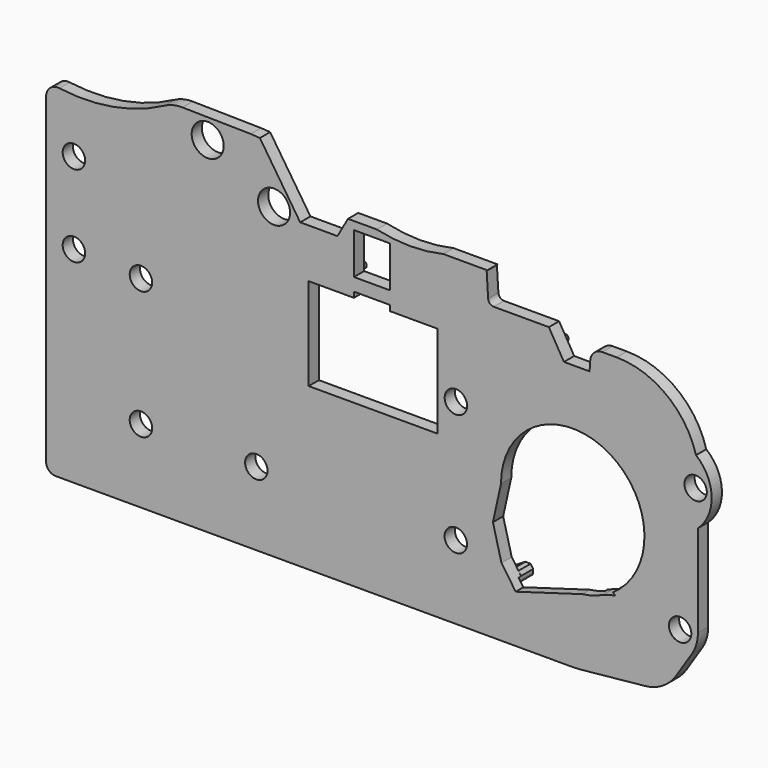
from build123d import *

# Parameters (mm, degrees)
PAD036_DEPTH    = 10
PAD037_DEPTH    = 10
PAD_DEPTH       = 2
POCKET022_DEPTH = 5
PAD001_DEPTH    = 3
SKETCH002_R     = 1.75
SKETCH002_R_2   = 1.8
SKETCH002_R_3   = 2.5
SKETCH002_R_4   = 11.18976
SKETCH002_W     = 5.62273
SKETCH002_H     = 6.447539
POCKET_DEPTH    = 2.5


with BuildPart() as body012:
    # Sketch056 → Pad036 (new body)
    with BuildSketch(Plane.XZ.offset(-1)):
        Polygon((-112.967441, 39.360652), (38.474369, 39.360652), (38.474369, -36.464421), (9.231458, -36.464421), (7.710164, -32.597797), (2.168727, -30.995455), (-3.706539, -34.133381), (-75.236191, -34.133381), (-112.967441, -28.899855), align=None)
    extrude(amount=-PAD036_DEPTH)

    # Sketch057 → Pad037 (join)
    with BuildSketch(Plane.XZ.offset(-1)):
        Polygon((-35.680244, 15.474805), (-33.439003, 15.329044), (-27.151497, 5.790857), (-21.33926, 5.790857), (-19.696665, 8.696977), (3.868171, 8.696977), (6.268959, 41.187645), (-27.277767, 43.082943), align=None)
        Polygon((4.252943, -30.799164), (6.472884, -34.009075), (21.980383, -29.473028), (9.225639, -16.763039), (4.571275, -18.150396), (2.920935, -25.618204), align=None)
    extrude(amount=PAD037_DEPTH)


with BuildPart() as body012_1:
    # Body012 placement: moved
    add(body012.part.moved(Location((0, -16, 0))))


with BuildPart() as backside:
    # Sketch → Pad (new body)
    with BuildSketch(Plane.XZ):
        with BuildLine():
            Line((34.908117, -16.046511), (34.908117, -30.421156))
            ThreePointArc((33.966362, -33.608462), (34.667753, -32.082919), (34.908117, -30.421156))
            Line((33.966362, -33.608462), (31.496699, -37.422811))
            ThreePointArc((26.62129, -40.400939), (29.398118, -39.467045), (31.496699, -37.422811))
            Line((16.892789, -41.382055), (26.62129, -40.400939))
            ThreePointArc((15.037659, -41.475363), (15.966396, -41.452021), (16.892789, -41.382055))
            Line((15.037659, -41.475363), (-65.31416, -41.475363))
            ThreePointArc((-66.799762, -39.989762), (-66.364639, -41.040241), (-65.31416, -41.475363))
            Line((-66.799762, -39.989762), (-66.799762, 10.179769))
            ThreePointArc((-64.729114, 11.988556), (-66.175275, 11.554477), (-66.799762, 10.179769))
            ThreePointArc((-64.729114, 11.988556), (-56.291395, 12.168118), (-48.316556, 14.930234))
            ThreePointArc((-45.536314, 15.60005), (-46.969042, 15.441993), (-48.316556, 14.930234))
            Line((-32.360933, 15.380445), (-45.536314, 15.60005))
            ThreePointArc((-32.360933, 15.380445), (-30.052429, 16.09023), (-28.605095, 18.023675))
            Line((-23.78021, 32.219441), (-28.605095, 18.023675))
            ThreePointArc((-21.294436, 34), (-22.823281, 33.508935), (-23.78021, 32.219441))
            Line((-2.141574, 34), (-21.294436, 34))
            ThreePointArc((0.523556, 31.494658), (-0.312664, 33.275331), (-2.141574, 34))
            Line((0.523556, 31.494658), (0.833508, 26.484702))
            ThreePointArc((1.210912, 20.384488), (2.367086, 23.517799), (0.833508, 26.484702))
            Line((1.210912, 20.384488), (1.512779, 15.505222))
            ThreePointArc((1.941555, 8.57465), (3.098229, 12.12476), (1.512779, 15.505222))
            Line((1.941555, 8.57465), (2.17198, 4.850132))
            ThreePointArc((2.17198, 4.850132), (2.45078, 4.256448), (3.060547, 4.01484))
            Line((3.060547, 4.01484), (11.648152, 4.01484))
            Line((11.648152, 4.01484), (14, 0))
            Line((14, 0), (18, 0))
            Line((18, 0), (18.105646, 1.531484))
            ThreePointArc((19.998692, 3.298441), (18.703918, 2.788065), (18.105646, 1.531484))
            Line((19.998692, 3.298441), (22.225658, 3.298441))
            ThreePointArc((34.606039, -6.108123), (29.999931, 0.680038), (22.225658, 3.298441))
            ThreePointArc((34.908117, -16.046511), (37.049591, -11.007636), (34.606039, -6.108123))
        make_face()
    extrude(amount=-PAD_DEPTH)

    # Sketch246 → Pocket022 (cut)
    with BuildSketch(Plane.XZ.offset(-0.5)):
        Polygon((-68.407944, -36.437805), (-6.008485, -36.437805), (-1.409258, -36.053066), (1.590662, -34.733101), (3.630606, -33.443134), (6.480527, -32.753155), (9.810436, -31.433191), (11.07926, -29.33378), (17.949074, -29.633772), (21.42898, -31.763714), (12.699215, -36.143597), (9.579302, -36.473587), (5.499413, -37.883549), (-2.150379, -39.893494), (-3.710335, -39.893494), (-68.407944, -39.893494), align=None)
    extrude(amount=POCKET022_DEPTH, mode=Mode.SUBTRACT)

    # Sketch001 → Pad001 (join)
    with BuildSketch(Plane.XZ.offset(-0.5)):
        with BuildLine():
            ThreePointArc((-32.780008, -0.785), (-34.661963, -0.854708), (-36.533604, -1.063447))
            Line((-62.679331, -4.963959), (-36.533604, -1.063447))
            ThreePointArc((-62.679331, -4.963959), (-64.261613, -5.500622), (-65.555734, -6.557444))
            ThreePointArc((-65.555734, -6.557444), (-65.709342, -7.236981), (-65.030703, -7.394509))
            ThreePointArc((-62.541939, -5.885101), (-63.93816, -6.389449), (-65.030703, -7.394509))
            Line((-62.541939, -5.885101), (-36.648923, -2.02229))
            ThreePointArc((-32.78, -1.715), (-34.720554, -1.791943), (-36.648923, -2.02229))
            Line((-32.78, -1.715), (-19.664916, -1.715))
            ThreePointArc((-19.664916, -1.715), (-19.192308, -1.342057), (-19.420635, -0.785))
            Line((-32.780008, -0.785), (-19.420635, -0.785))
        make_face()
        with BuildLine():
            ThreePointArc((-10.037382, 0.75), (-9.685067, 0.767413), (-9.336186, 0.819483))
            ThreePointArc((-9.336186, 0.819483), (-8.964855, 1.376652), (-9.522024, 1.747983))
            ThreePointArc((-10.037382, 1.696916), (-9.778441, 1.709714), (-9.522024, 1.747983))
            Line((-10.084701, 1.696916), (-10.037382, 1.696916))
            Line((-10.084701, 3.514677), (-10.084701, 1.696916))
            Line((-10.684701, 3.514677), (-10.084701, 3.514677))
            Line((-10.684701, 1.722759), (-10.684701, 3.514677))
            Line((-11.317152, 1.75), (-10.684701, 1.722759))
            ThreePointArc((-11.856703, 1.973528), (-11.606672, 1.814105), (-11.317152, 1.75))
            ThreePointArc((-11.856703, 1.973528), (-12.57283, 1.932211), (-12.510466, 1.217609))
            ThreePointArc((-12.510466, 1.217609), (-11.938416, 0.870846), (-11.280478, 0.75))
            Line((-10.037382, 0.75), (-11.280478, 0.75))
        make_face()
        with BuildLine():
            Line((-40.708853, 1.715), (-19.664916, 1.715))
            ThreePointArc((-19.664916, 0.715), (-19.1759, 1.215), (-19.664916, 1.715))
            Line((-40.866089, 0.715), (-19.664916, 0.715))
            ThreePointArc((-40.866089, 0.715), (-41.277294, 0.706551), (-41.687871, 0.682296))
            Line((-41.687871, 0.682296), (-62.272572, -1.768228))
            ThreePointArc((-66.526967, 1.152481), (-64.94954, -1.108686), (-62.272572, -1.768228))
            ThreePointArc((-65.605299, 1.681295), (-66.318973, 1.857562), (-66.526967, 1.152481))
            ThreePointArc((-65.605299, 1.681295), (-64.493926, -0.192678), (-62.391909, -0.765778))
            Line((-42.234471, 1.633882), (-62.391909, -0.765778))
            ThreePointArc((-40.708853, 1.715), (-41.472988, 1.699381), (-42.234471, 1.633882))
        make_face()
        with BuildLine():
            Line((-11.280478, -0.75), (20.639957, -0.75))
            ThreePointArc((20.595613, -1.75), (21.147022, -1.273468), (20.639957, -0.75))
            Line((20.595613, -1.75), (-11.280478, -1.75))
            ThreePointArc((-11.280478, -1.75), (-11.543436, -1.789685), (-11.782971, -1.905204))
            ThreePointArc((-12.531817, -1.223229), (-12.53773, -1.981846), (-11.782971, -1.905204))
            ThreePointArc((-11.280478, -0.75), (-11.949394, -0.872259), (-12.531817, -1.223229))
        make_face()
        with BuildLine():
            ThreePointArc((11.020144, 0.75), (11.581322, 0.814673), (12.113079, 1.0053))
            ThreePointArc((12.113079, 1.0053), (12.246468, 1.708148), (11.544673, 1.846974))
            ThreePointArc((11.020144, 1.75), (11.286853, 1.774447), (11.544673, 1.846974))
            Line((10.522644, 1.75), (11.020144, 1.75))
            Line((10.522644, 3.350087), (10.522644, 1.75))
            Line((9.922644, 3.350087), (10.522644, 3.350087))
            Line((9.922644, 1.75), (9.922644, 3.350087))
            Line((8.557044, 1.75), (9.922644, 1.75))
            ThreePointArc((7.30572, 2.600814), (7.800457, 1.98285), (8.557044, 1.75))
            ThreePointArc((7.30572, 2.600814), (6.656896, 2.881934), (6.375776, 2.233111))
            ThreePointArc((6.375776, 2.233111), (7.238186, 1.155897), (8.557044, 0.75))
            Line((11.020144, 0.75), (8.557044, 0.75))
        make_face()
        with BuildLine():
            ThreePointArc((30.094925, -6.301687), (27.593074, -1.067229), (22.539072, 1.781607))
            Line((21.709072, 0.881607), (22.539072, 1.781607))
            ThreePointArc((29.094925, -6.586631), (26.673496, -1.595041), (21.709072, 0.881607))
            ThreePointArc((28.569352, -10.789996), (29.09399, -8.721054), (29.094925, -6.586631))
            Line((28.569352, -10.789996), (28.433421, -11.138084))
            ThreePointArc((28.433421, -11.138084), (28.343238, -11.713699), (28.503336, -12.273908))
            Line((28.503336, -12.273908), (28.99164, -13.177927))
            ThreePointArc((21.143643, -34.182958), (29.6474, -25.391553), (28.99164, -13.177927))
            ThreePointArc((16.153168, -35.31368), (18.696011, -34.958426), (21.143643, -34.182958))
            Line((16.153168, -35.31368), (12.045162, -35.539038))
            ThreePointArc((12.045162, -35.539038), (10.036411, -35.800225), (8.088685, -36.356697))
            Line((8.088685, -36.356697), (3.376847, -38.091538))
            ThreePointArc((1.382962, -38.683765), (2.389393, -38.419596), (3.376847, -38.091538))
            Line((1.382962, -38.683765), (-0.347845, -39.079283))
            ThreePointArc((-2.447544, -39.316138), (-1.391036, -39.256737), (-0.347845, -39.079283))
            Line((-2.447544, -39.316138), (-63.340052, -39.316138))
            ThreePointArc((-63.340052, -39.316138), (-63.759323, -39.72583), (-63.331107, -40.126163))
            Line((-2.210249, -40.126163), (-63.331107, -40.126163))
            ThreePointArc((-2.210249, -40.126163), (-0.911618, -40.041132), (0.364837, -39.787491))
            Line((1.783637, -39.407725), (0.364837, -39.787491))
            ThreePointArc((1.783637, -39.407725), (2.706456, -39.139472), (3.616979, -38.832059))
            Line((8.416255, -37.096687), (3.616979, -38.832059))
            ThreePointArc((11.787959, -36.433046), (10.076736, -36.635969), (8.416255, -37.096687))
            Line((15.99225, -36.257534), (11.787959, -36.433046))
            ThreePointArc((15.99225, -36.257534), (19.02202, -35.842799), (21.92027, -34.86727))
            ThreePointArc((21.92027, -34.86727), (30.107809, -26.726285), (30.81348, -15.201812))
            Line((30.494947, -14.441101), (30.81348, -15.201812))
            Line((29.601402, -12.667724), (30.494947, -14.441101))
            ThreePointArc((29.52968, -11.159098), (29.405068, -11.92104), (29.601402, -12.667724))
            ThreePointArc((29.52968, -11.159098), (30.124737, -8.76675), (30.094925, -6.301687))
        make_face()
        with BuildLine():
            Line((-4.903453, -35.826764), (-63.32048, -35.826764))
            ThreePointArc((-63.32048, -35.826764), (-63.747909, -36.341236), (-63.196922, -36.720432))
            Line((-4.304632, -36.720432), (-63.196922, -36.720432))
            ThreePointArc((-4.304632, -36.720432), (-3.57633, -36.692882), (-2.85219, -36.610388))
            Line((-0.88421, -36.310458), (-2.85219, -36.610388))
            ThreePointArc((-0.88421, -36.310458), (0.086736, -36.064995), (0.992676, -35.638076))
            Line((2.948923, -34.474045), (0.992676, -35.638076))
            ThreePointArc((3.969626, -34.134523), (3.4409, -34.249045), (2.948923, -34.474045))
            Line((5.120863, -34.012633), (3.969626, -34.134523))
            ThreePointArc((5.120863, -34.012633), (5.462663, -33.83823), (5.600108, -33.479968))
            Line((5.600108, -33.0037), (5.600108, -33.479968))
            Line((5.217006, -32.403717), (5.600108, -33.0037))
            Line((4.377028, -32.403717), (5.217006, -32.403717))
            Line((1.797096, -33.963676), (4.377028, -32.403717))
            Line((-1.232704, -35.307941), (1.797096, -33.963676))
            Line((-4.903453, -35.826764), (-1.232704, -35.307941))
        make_face()
        with BuildLine():
            Line((20.108986, 2.040815), (21.848372, 2.040815))
            Line((21.848372, 2.040815), (22.354362, 2.040815))
            Line((22.354362, 2.040815), (21.294489, 0.931259))
            Line((20.073923, 0.931259), (21.294489, 0.931259))
            ThreePointArc((18.633061, 1.825792), (19.247917, 1.20847), (20.073923, 0.931259))
            ThreePointArc((19.585478, 2.387479), (18.840774, 2.561906), (18.633061, 1.825792))
            ThreePointArc((19.585478, 2.387479), (19.811364, 2.159983), (20.108986, 2.040815))
        make_face()
        with BuildLine():
            Line((21.745434, -1.184476), (23.189505, -1.688577))
            ThreePointArc((24.337268, -2.340342), (23.792893, -1.962499), (23.189505, -1.688577))
            Line((24.337268, -2.340342), (25.355999, -3.193268))
            ThreePointArc((26.538437, -4.82526), (26.048405, -3.93595), (25.355999, -3.193268))
            Line((26.538437, -4.82526), (27.169463, -6.40398))
            ThreePointArc((27.397803, -7.585192), (27.339701, -6.983747), (27.169463, -6.40398))
            Line((27.397803, -7.585192), (27.398449, -7.975154))
            ThreePointArc((26.989911, -8.247073), (27.267154, -8.220751), (27.398449, -7.975154))
            Line((26.989911, -8.247073), (26.700957, -8.125607))
            Line((26.700957, -8.125607), (26.174994, -7.414021))
            Line((26.174994, -7.414021), (25.761044, -6.015787))
            Line((25.761044, -6.015787), (25.220528, -4.798453))
            Line((25.220528, -4.798453), (23.695854, -3.342299))
            Line((23.695854, -3.342299), (21.505911, -2.382323))
            Line((21.505911, -2.382323), (21.745434, -1.184476))
        make_face()
    extrude(amount=PAD001_DEPTH)

    # Sketch002 → Pocket (cut, symmetric)
    with BuildSketch(Plane.XZ):
        with Locations((-6.3, 17)):
            Circle(SKETCH002_R)
        with Locations((-34, -30)):
            Circle(SKETCH002_R)
        with Locations((-52, -30)):
            Circle(SKETCH002_R)
        with Locations((-52, -10)):
            Circle(SKETCH002_R)
        with Locations((-10, 31)):
            Circle(SKETCH002_R_2)
        with Locations((-62.459347, 3.360183)):
            Circle(SKETCH002_R)
        with Locations((-62.459347, -9.388719)):
            Circle(SKETCH002_R)
        with Locations((-2.874857, -29.971991)):
            Circle(SKETCH002_R)
        with Locations((-81.54081, 8.396378)):
            Circle(SKETCH002_R)
        with Locations((-1.804415, 23.373886)):
            Circle(SKETCH002_R_2)
        with Locations((-41.5849, 12.407657)):
            Circle(SKETCH002_R_3)
        with Locations((-31.232021, 6.60883)):
            Circle(SKETCH002_R_3)
        with Locations((15.371984, -19.88271)):
            Circle(SKETCH002_R_4)
        with Locations((-2.860417, -10.964975)):
            Circle(SKETCH002_R)
        with Locations((32.124352, -30.871788)):
            Circle(SKETCH002_R)
        with Locations((34.542713, -10.645433)):
            Circle(SKETCH002_R)
        with Locations((-15.953316, 4.228146)):
            Rectangle(SKETCH002_W, SKETCH002_H)
        Polygon((-13.141951, -1.004377), (-13.141951, -1.857974), (-5.700795, -1.857974), (-5.700795, -16.270607), (-18.216814, -16.270607), (-25.824459, -16.270607), (-25.824459, -1.857974), (-18.764681, -1.857974), (-18.764681, -1.004377), align=None)
        with BuildLine():
            ThreePointArc((-21.811428, 16.117455), (-12.181296, 12.125627), (-1.894515, 13.815673))
            ThreePointArc((-0.230757, 10.288363), (0.701018, 12.883897), (-1.894515, 13.815673))
            ThreePointArc((-24.23588, 13.062616), (-12.629036, 8.251414), (-0.230757, 10.288363))
            ThreePointArc((-21.811428, 16.117455), (-24.551073, 15.802261), (-24.23588, 13.062616))
        make_face()
    extrude(amount=POCKET_DEPTH, both=True, mode=Mode.SUBTRACT)


with BuildPart() as front:
    # Part__Mirroring: instance of BackSide
    add(backside.part.mirror(Plane(origin=(0, 0, 0), x_dir=(1, 0, 0), z_dir=(0, 1, 0))))


with BuildPart() as front_1:
    # Part__Mirroring placement: moved
    add(front.part.moved(Location((0, -16, 0))))

    # Cut: cut Body012
    add(body012_1.part, mode=Mode.SUBTRACT)


with BuildPart() as front_2:
    # Cut placement: moved
    add(front_1.part.moved(Location((0, 7, 0))))


solid = front_2.part
